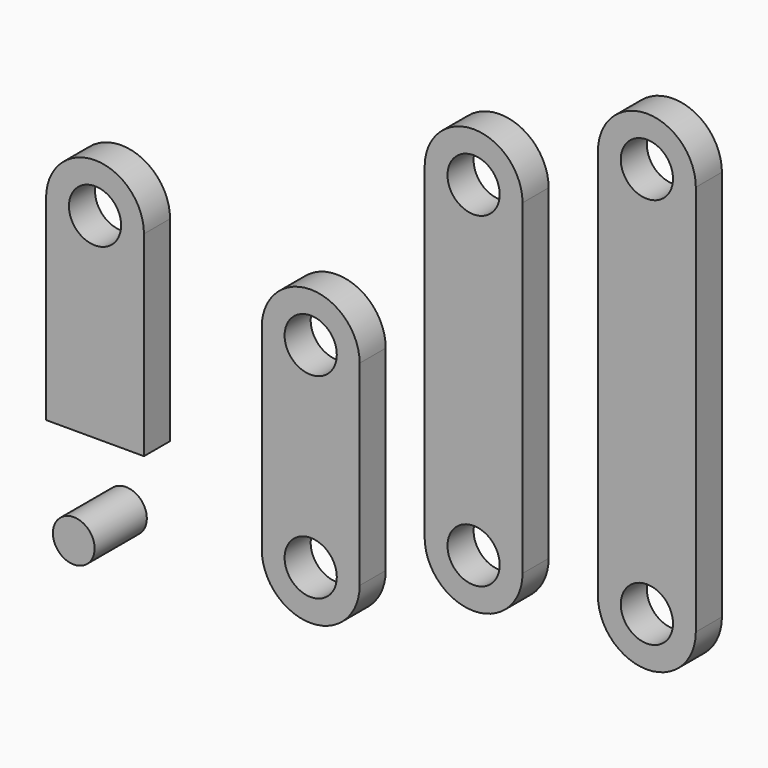
from build123d import *

# Parameters (mm, degrees)
F0_R      = 4
F1_DEPTH  = 5
F0_R_2    = 3.2
F2_DEPTH  = 5
F2_FACE_R = 3.2
F3_DEPTH  = 5


with BuildPart() as f1:
    # F0 (on Front) → F1 (new body)
    with BuildSketch(Plane.XZ):
        with BuildLine():
            ThreePointArc((-51.562501, 36.697761), (-59.062501, 44.197761), (-66.562501, 36.697761))
            Line((-66.562501, 36.697761), (-66.562501, 6.697761))
            Line((-66.562501, 6.697761), (-51.562501, 6.697761))
            Line((-51.562501, 6.697761), (-51.562501, 36.697761))
        make_face()
        with Locations((-59.062501, 36.697761)):
            Circle(F0_R, mode=Mode.SUBTRACT)
        with BuildLine():
            ThreePointArc((-18.510203, 30), (-26.010203, 37.5), (-33.510203, 30))
            Line((-33.510203, 30), (-33.510203, 0))
            ThreePointArc((-33.510203, 0), (-26.010203, -7.5), (-18.510203, 0))
            Line((-18.510203, 0), (-18.510203, 30))
        make_face()
        with Locations((-26.010203, 0)):
            Circle(F0_R, mode=Mode.SUBTRACT)
        with Locations((-26.010203, 30)):
            Circle(F0_R, mode=Mode.SUBTRACT)
        with BuildLine():
            ThreePointArc((6.452152, 59.747937), (-1.047848, 67.247937), (-8.547848, 59.747937))
            Line((-8.547848, 59.747937), (-8.547848, 9.747937))
            ThreePointArc((-8.547848, 9.747937), (-1.047848, 2.247937), (6.452152, 9.747937))
            Line((6.452152, 9.747937), (6.452152, 59.747937))
        make_face()
        with Locations((-1.047848, 9.747937)):
            Circle(F0_R, mode=Mode.SUBTRACT)
        with Locations((-1.047848, 59.747937)):
            Circle(F0_R, mode=Mode.SUBTRACT)
        with BuildLine():
            ThreePointArc((33.008642, 70.487972), (25.508642, 77.987972), (18.008642, 70.487972))
            Line((18.008642, 70.487972), (18.008642, 10.487972))
            ThreePointArc((18.008642, 10.487972), (25.508642, 2.987972), (33.008642, 10.487972))
            Line((33.008642, 10.487972), (33.008642, 70.487972))
        make_face()
        with Locations((25.508642, 10.487972)):
            Circle(F0_R, mode=Mode.SUBTRACT)
        with Locations((25.508642, 70.487972)):
            Circle(F0_R, mode=Mode.SUBTRACT)
    extrude(amount=F1_DEPTH)


with BuildPart() as f2:
    # F0 (on Front) → F2 (new body)
    with BuildSketch(Plane.XZ):
        with BuildLine():
            ThreePointArc((-51.562501, 36.697761), (-59.062501, 44.197761), (-66.562501, 36.697761))
            Line((-66.562501, 36.697761), (-66.562501, 6.697761))
            Line((-66.562501, 6.697761), (-51.562501, 6.697761))
            Line((-51.562501, 6.697761), (-51.562501, 36.697761))
        make_face()
        with Locations((-59.062501, 36.697761)):
            Circle(F0_R, mode=Mode.SUBTRACT)
        with BuildLine():
            ThreePointArc((-18.510203, 30), (-26.010203, 37.5), (-33.510203, 30))
            Line((-33.510203, 30), (-33.510203, 0))
            ThreePointArc((-33.510203, 0), (-26.010203, -7.5), (-18.510203, 0))
            Line((-18.510203, 0), (-18.510203, 30))
        make_face()
        with Locations((-26.010203, 0)):
            Circle(F0_R, mode=Mode.SUBTRACT)
        with Locations((-26.010203, 30)):
            Circle(F0_R, mode=Mode.SUBTRACT)
        with BuildLine():
            ThreePointArc((6.452152, 59.747937), (-1.047848, 67.247937), (-8.547848, 59.747937))
            Line((-8.547848, 59.747937), (-8.547848, 9.747937))
            ThreePointArc((-8.547848, 9.747937), (-1.047848, 2.247937), (6.452152, 9.747937))
            Line((6.452152, 9.747937), (6.452152, 59.747937))
        make_face()
        with Locations((-1.047848, 9.747937)):
            Circle(F0_R, mode=Mode.SUBTRACT)
        with Locations((-1.047848, 59.747937)):
            Circle(F0_R, mode=Mode.SUBTRACT)
        with BuildLine():
            ThreePointArc((33.008642, 70.487972), (25.508642, 77.987972), (18.008642, 70.487972))
            Line((18.008642, 70.487972), (18.008642, 10.487972))
            ThreePointArc((18.008642, 10.487972), (25.508642, 2.987972), (33.008642, 10.487972))
            Line((33.008642, 10.487972), (33.008642, 70.487972))
        make_face()
        with Locations((25.508642, 10.487972)):
            Circle(F0_R, mode=Mode.SUBTRACT)
        with Locations((25.508642, 70.487972)):
            Circle(F0_R, mode=Mode.SUBTRACT)
        with Locations((-58.322046, -4.881362)):
            Circle(F0_R_2)
    extrude(amount=F2_DEPTH)

    # F2_face (on face) → F3 (join)
    with BuildSketch(Plane(origin=(-58.322046, -5, -4.881362), x_dir=(1, 0, 0), z_dir=(0, -1, 0))):
        Circle(F2_FACE_R)
        Circle(F2_FACE_R)
    extrude(amount=F3_DEPTH)


solid = Compound([f1.part, f2.part])
